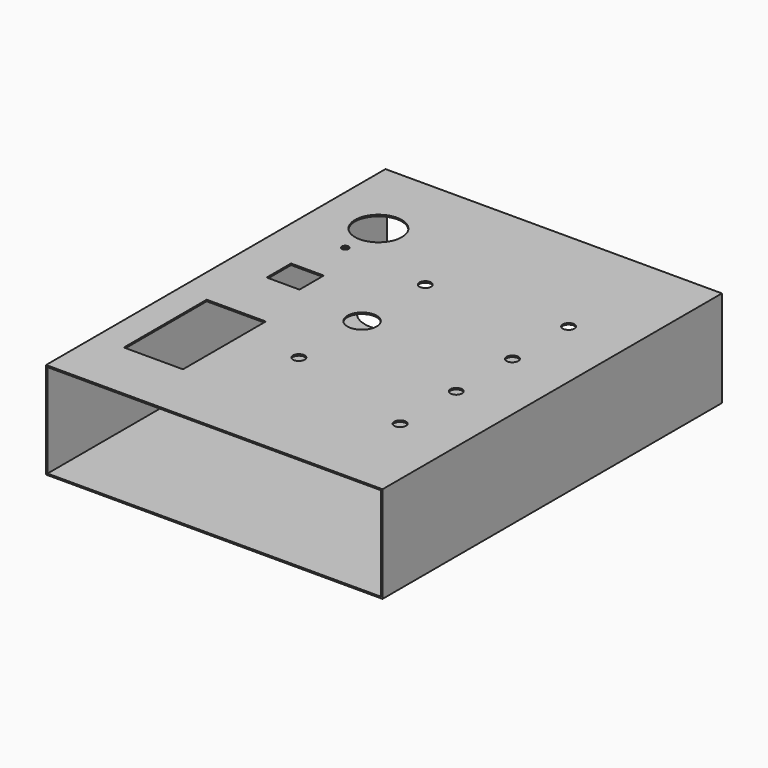
from build123d import *

# Parameters (mm, degrees)
F0_W     = 146.05
F0_H     = 41.91
F0_W_2   = 144.78
F0_H_2   = 40.64
F1_DEPTH = 184.15
F2_R     = 12.7
F3_DEPTH = 0.635
F4_W     = 25.654
F4_H     = 44.958
F4_W_2   = 14.224
F4_H_2   = 13.208
F4_R     = 10.16
F4_R_2   = 6.35
F4_R_3   = 2.54
F5_DEPTH = 0.635
F4_R_4   = 1.4859
F6_DEPTH = 0.635


with BuildPart() as f1:
    # F0 (on Front) → F1 (new body)
    with BuildSketch(Plane.XZ):
        with Locations((73.025, 20.955)):
            Rectangle(F0_W, F0_H)
        with Locations((73.025, 20.955)):
            Rectangle(F0_W_2, F0_H_2, mode=Mode.SUBTRACT)
    extrude(amount=-F1_DEPTH)

    # F2 (on face) → F3 (cut, through all)
    with BuildSketch(Plane(origin=(0, 0, 0), x_dir=(1, 0, 0), z_dir=(0, 0, -1))):
        with Locations((19.05, -165.1)):
            Circle(F2_R)
    extrude(amount=-F3_DEPTH, mode=Mode.SUBTRACT)

    # F4 (on face) → F5 (cut, through all)
    with BuildSketch(Plane.XY.offset(41.91)):
        with Locations((25.4, 48.9712)):
            Rectangle(F4_W, F4_H)
        with Locations((25.4, 103.4542)):
            Rectangle(F4_W_2, F4_H_2)
        with Locations((25.4, 148.59)):
            Circle(F4_R)
        with Locations((63.5, 92.075)):
            Circle(F4_R_2)
        with Locations((63.5, 57.785)):
            Circle(F4_R_3)
        with Locations((120.65, 71.755)):
            Circle(F4_R_3)
        with Locations((120.65, 132.715)):
            Circle(F4_R_3)
    extrude(amount=-F5_DEPTH, mode=Mode.SUBTRACT)

    # F4 (on face) → F6 (cut, through all)
    with BuildSketch(Plane.XY.offset(41.91)):
        with Locations((25.4, 130.5941)):
            Circle(F4_R_4)
        with Locations((63.5, 126.365)):
            Circle(F4_R_3)
        with Locations((120.65, 102.235)):
            Circle(F4_R_3)
        with Locations((120.65, 41.275)):
            Circle(F4_R_3)
    extrude(amount=-F6_DEPTH, mode=Mode.SUBTRACT)


solid = f1.part
